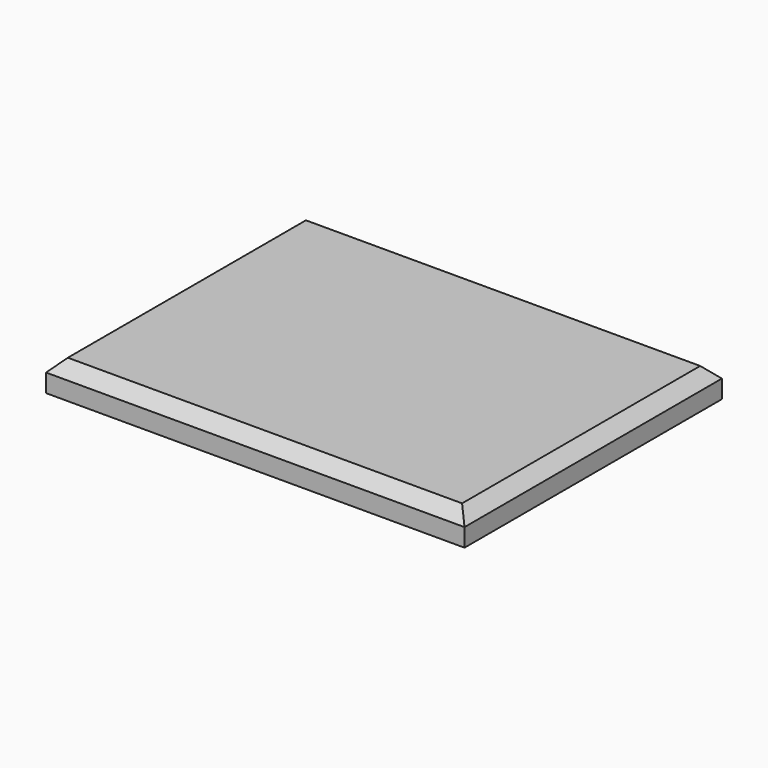
from build123d import *

# Parameters (mm, degrees)
F0_W     = 439.7375
F0_H     = 338.1375
F1_DEPTH = 31.75
F2_SIZE  = 12.7


with BuildPart() as f1:
    # F0 (on Top) → F1 (new body)
    with BuildSketch(Plane.XY):
        Rectangle(F0_W, F0_H)
    extrude(amount=F1_DEPTH)

    # F2
    f2_edges = [f1.edges().sort_by_distance(p)[0] for p in [
        (-219.86875, 0, 31.75),
        (0, -169.06875, 31.75),
        (219.86875, 0, 31.75),
        (0, 169.06875, 31.75),
    ]]
    chamfer(f2_edges, length=F2_SIZE)


solid = f1.part
